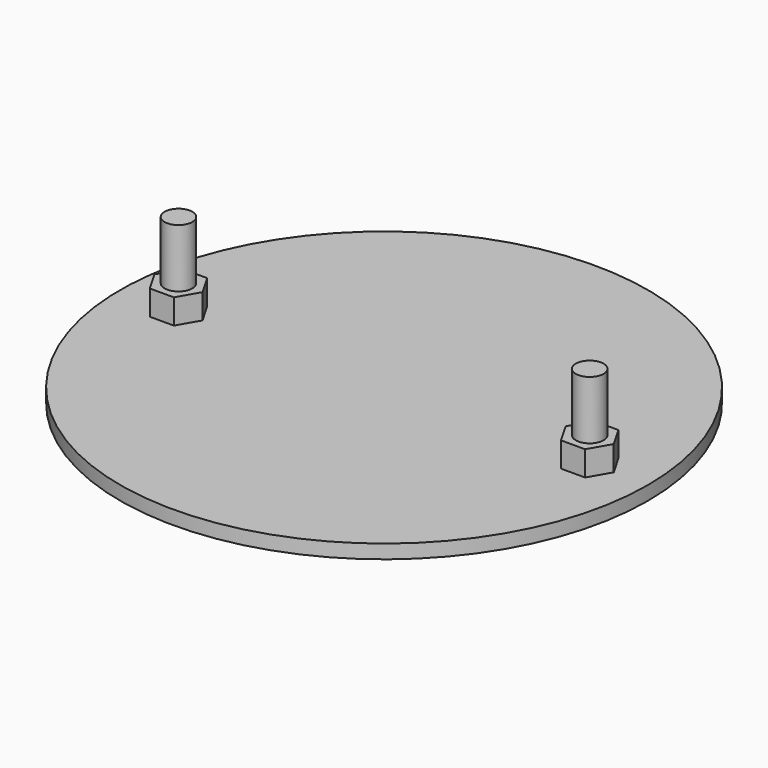
from build123d import *

# Parameters (mm, degrees)
F0_R     = 120.65
F1_DEPTH = 6.35
F2_R     = 6.35
F3_DEPTH = 38.1
F4_R     = 6.35
F5_DEPTH = 11.3792


with BuildPart() as f1:
    # F0 (on Top) → F1 (new body)
    with BuildSketch(Plane.XY):
        Circle(F0_R)
    extrude(amount=F1_DEPTH)

    # F2 (on face) → F3 (join)
    with BuildSketch(Plane.XY.offset(6.35)):
        with Locations((-93.98, 0)):
            Circle(F2_R)
        with Locations((93.98, 0)):
            Circle(F2_R)
    extrude(amount=F3_DEPTH)

    # F4 (on face) → F5 (join)
    with BuildSketch(Plane.XY.offset(6.35)):
        Polygon((-88.480739, 9.525), (-99.479261, 9.525), (-104.978523, 0), (-99.479261, -9.525), (-88.480739, -9.525), (-82.981477, 0), align=None)
        with Locations((-93.98, 0)):
            Circle(F4_R, mode=Mode.SUBTRACT)
        Polygon((99.479261, 9.525), (88.480739, 9.525), (82.981477, 0), (88.480739, -9.525), (99.479261, -9.525), (104.978523, 0), align=None)
        with Locations((93.98, 0)):
            Circle(F4_R, mode=Mode.SUBTRACT)
    extrude(amount=F5_DEPTH)


solid = f1.part
